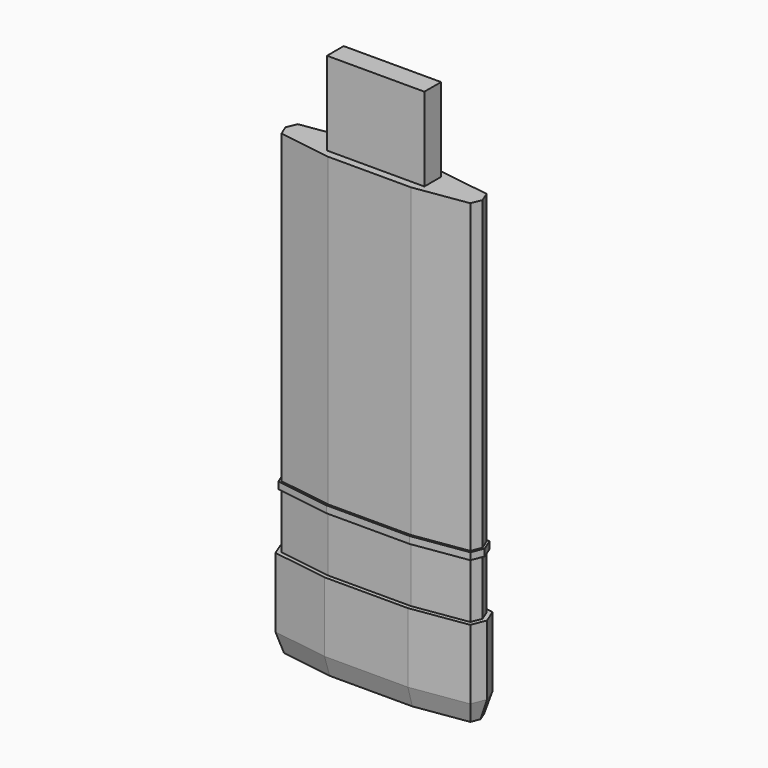
from build123d import *

# Parameters (mm, degrees)
F1_DEPTH  = 63.5
F4_DEPTH  = 17.78
F4_TAPER  = 17
F6_DEPTH  = 50.8
F8_DEPTH  = 6.35
F10_DEPTH = 279.4
F11_W     = 88.9
F11_H     = 19.05
F12_DEPTH = 76.2


with BuildPart() as f1:
    # F0 (on Top) → F1 (new body)
    with BuildSketch(Plane.XY):
        Polygon((-57.5468856689, 20.32), (-108.3468856689, 12.7), (-113.5062576618, 0), (-108.4262576618, -12.7), (-57.5468856689, -20.32), (18.6531143311, -20.32), (69.4531143311, -12.7), (74.5331143311, 0), (69.4531143311, 12.7), (18.6531143311, 20.32), align=None)
    extrude(amount=F1_DEPTH)

    # F3 (on face) → F4 (join)
    with BuildSketch(Plane(origin=(0, 0, 0), x_dir=(1, 0, 0), z_dir=(0, 0, -1))):
        Polygon((-113.5062576618, 0), (-108.3468856689, -12.7), (-57.5468856689, -20.32), (18.6531143311, -20.32), (69.4531143311, -12.7), (74.5331143311, 0), (69.4531143311, 12.7), (18.6531143311, 20.32), (-57.5468856689, 20.32), (-108.4262576618, 12.7), align=None)
        Polygon((-56.9794414883, 12.7), (18.0847933541, 12.7), (64.0011016636, 5.8125537536), (66.326123165, 0), (64.0011016636, -5.8125537536), (18.0847933541, -12.7), (-56.9785646919, -12.7), (-102.921750061, -5.8085221946), (-105.2904326731, 0.0220845566), (-102.9746753651, 5.8114778266), align=None, mode=Mode.SUBTRACT)
        Polygon((64.0011016636, 5.8125537536), (18.0847933541, 12.7), (-56.9794414883, 12.7), (-102.9746753651, 5.8114778266), (-105.2904326731, 0.0220845566), (-102.921750061, -5.8085221946), (-56.9785646919, -12.7), (18.0847933541, -12.7), (64.0011016636, -5.8125537536), (66.326123165, 0), align=None)
    extrude(amount=F4_DEPTH, taper=F4_TAPER)

    # F5 (on face) → F6 (join)
    with BuildSketch(Plane.XY.offset(63.5)):
        Polygon((-105.634317865, 9.2542610973), (-109.3983451675, -0.0110422783), (-105.7004665135, -9.2557389133), (-57.2631635786, -16.51), (18.3689538426, -16.51), (66.7271079974, -9.2562768768), (70.4296187481, 0), (66.7271079974, 9.2562768768), (18.3689538426, 16.51), (-57.2627251804, 16.51), align=None)
    extrude(amount=F6_DEPTH)

    # F7 (on face) → F8 (join)
    with BuildSketch(Plane.XY.offset(114.3)):
        Polygon((-57.4050246237, -18.415), (18.5110340868, -18.415), (68.0901111642, -10.9781384384), (72.4813665396, 0), (68.0901111642, 10.9781384384), (18.5110340868, 18.415), (-57.4048054246, 18.415), (-106.9906017669, 10.9771305487), (-111.4523014147, -0.0055211391), (-107.0633620877, -10.9778694567), align=None)
    extrude(amount=F8_DEPTH)

    # F9 (on face) → F10 (join)
    with BuildSketch(Plane.XY.offset(120.65)):
        Polygon((70.4296187481, 0), (66.7271079974, 9.2562768768), (18.3689538426, 16.51), (-57.2627251804, 16.51), (-105.634317865, 9.2542610973), (-109.3983451675, -0.0110422783), (-105.7004665135, -9.2557389133), (-57.2631635786, -16.51), (18.3689538426, -16.51), (66.7271079974, -9.2562768768), align=None)
    extrude(amount=F10_DEPTH)

    # F11 (on face) → F12 (join)
    with BuildSketch(Plane.XY.offset(400.05)):
        with Locations((-19.4468856689, -0.0110422783)):
            Rectangle(F11_W, F11_H)
    extrude(amount=F12_DEPTH)


solid = f1.part
